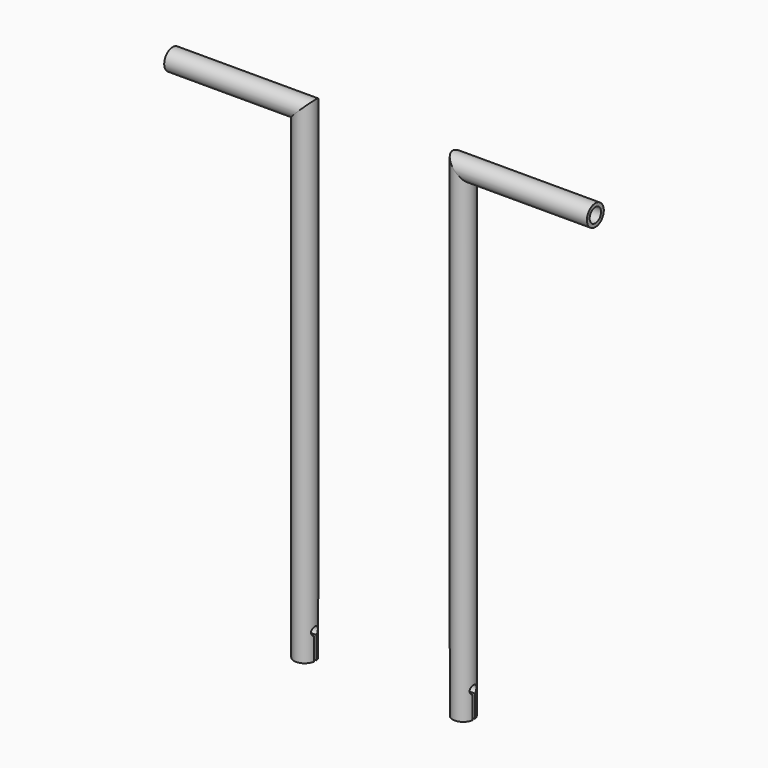
from build123d import *

# Parameters (mm, degrees)
F1_R      = 2
F6_D      = 1.6
F7_W      = 0.5
F7_H      = 4.3
F11_D     = 2.7
F11_DEPTH = 10
F11_TIP   = 0.8111618357


with BuildPart() as f3:
    # F3: sweep along a path in F2
    with BuildLine(Plane.XZ) as f3_path:
        Line((15, -19.9935957789), (15, 71.5064042211))
        Line((15, 71.5064042211), (40, 71.5064042211))
    # F1 (on offset) → F3 (sweep)
    with BuildSketch(Plane.XY.offset(-20)):
        with Locations((15, 0)):
            Circle(F1_R)
    sweep(path=f3_path.line, transition=Transition.RIGHT)

    # F6 (through all)
    with Locations(Plane(origin=(13, 0, 0), x_dir=(0, 1, 0), z_dir=(-1, 0, 0))):
        with Locations((0, 15)):
            Hole(F6_D / 2)

    # F9: sweep along a path in F8
    with BuildLine(Plane.XZ) as f9_path:
        Line((12.9777537659, -18.3893050998), (17.0004218817, -18.3893050998))
    # F7 (on offset) → F9 (sweep, cut)
    with BuildSketch(Plane.YZ.offset(13)):
        with Locations((0, -17.85)):
            Rectangle(F7_W, F7_H)
    sweep(path=f9_path.line, mode=Mode.SUBTRACT)

    # F11
    with Locations(Plane.YZ.offset(39.9935957789)):
        with Locations((0, 71.5064042211)):
            Hole(F11_D / 2, depth=F11_DEPTH)
            with Locations((0, 0, -(F11_DEPTH + F11_TIP / 2))):  # 118° drill point
                Cone(0, F11_D / 2, F11_TIP, mode=Mode.SUBTRACT)


with BuildPart() as f12_1:
    # F12: instance of F3
    add(f3.part.mirror(Plane.YZ))


solid = Compound([f3.part, f12_1.part])
